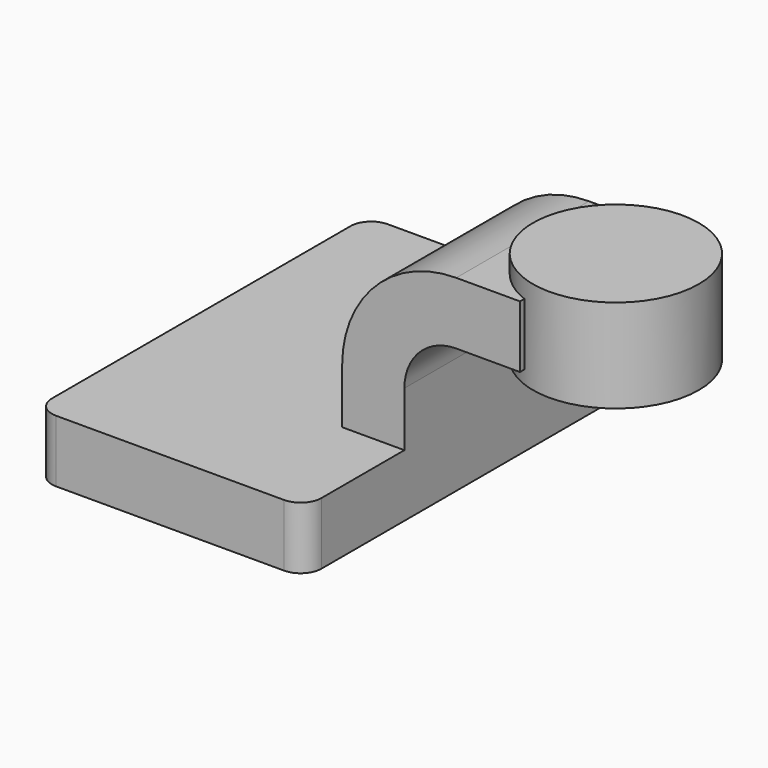
from build123d import *

# Parameters (mm, degrees)
F1_DEPTH = 63.5
F0_W     = 16.3567779206
F0_H     = 19.05
F2_DEPTH = 25.4
F3_DEPTH = 7.9375
F0_W_2   = 25.4
F0_H_2   = 28.575
F5_R     = 6.35


with BuildPart() as f1:
    # F0 (on Front) → F1 (new body, symmetric)
    with BuildSketch(Plane.XZ):
        Polygon((22.225, 9.525), (-41.275, 9.525), (-41.275, -9.525), (41.275, -9.525), (41.275, 9.525), align=None)
    extrude(amount=F1_DEPTH, both=True)

    # F0 (on Front) → F2 (join, symmetric)
    with BuildSketch(Plane.XZ):
        with Locations((68.5033889603, 51.6308948087)):
            Rectangle(F0_W, F0_H)
        with BuildLine():
            Line((60.325, 61.1558948087), (57.15, 61.1558948087))
            ThreePointArc((57.15, 61.1558948087), (32.4542956671, 50.9265991416), (22.225, 26.2308948087))
            Line((22.225, 26.2308948087), (22.225, 9.525))
            Line((22.225, 9.525), (41.275, 9.525))
            Line((41.275, 9.525), (41.275, 17.8779474043))
            Line((41.275, 17.8779474043), (41.275, 26.2308948087))
            ThreePointArc((41.275, 26.2308948087), (45.9246798487, 37.45621496), (57.15, 42.1058948087))
            Line((57.15, 42.1058948087), (60.325, 42.1058948087))
            Line((60.325, 42.1058948087), (60.325, 61.1558948087))
        make_face()
    extrude(amount=F2_DEPTH, both=True)

    # F0 (on Front) → F3 (join, symmetric)
    with BuildSketch(Plane.XZ):
        with BuildLine():
            Line((60.325, 61.1558948087), (57.15, 61.1558948087))
            ThreePointArc((57.15, 61.1558948087), (32.4542956671, 50.9265991416), (22.225, 26.2308948087))
            Line((22.225, 26.2308948087), (22.225, 9.525))
            Line((22.225, 9.525), (41.275, 9.525))
            Line((41.275, 9.525), (41.275, 17.8779474043))
            Line((41.275, 17.8779474043), (41.275, 26.2308948087))
            ThreePointArc((41.275, 26.2308948087), (45.9246798487, 37.45621496), (57.15, 42.1058948087))
            Line((57.15, 42.1058948087), (60.325, 42.1058948087))
            Line((60.325, 42.1058948087), (60.325, 61.1558948087))
        make_face()
    extrude(amount=F3_DEPTH, both=True)

    # F5
    f5_edges = [f1.edges().sort_by_distance(p)[0] for p in [
        (-41.275, -63.5, 0),
        (41.275, -63.5, 0),
        (41.275, 63.5, 0),
        (-41.275, 63.5, 0),
    ]]
    fillet(f5_edges, radius=F5_R)


with BuildPart() as f4:
    # F0 (on Front) → F4 (revolve)
    with BuildSketch(Plane.XZ):
        with Locations((98.425, 52.3875)):
            Rectangle(F0_W_2, F0_H_2)
    revolve(axis=Axis((85.725, 0, 52.3875), (0, 0, -1)))


solid = Compound([f1.part, f4.part])
